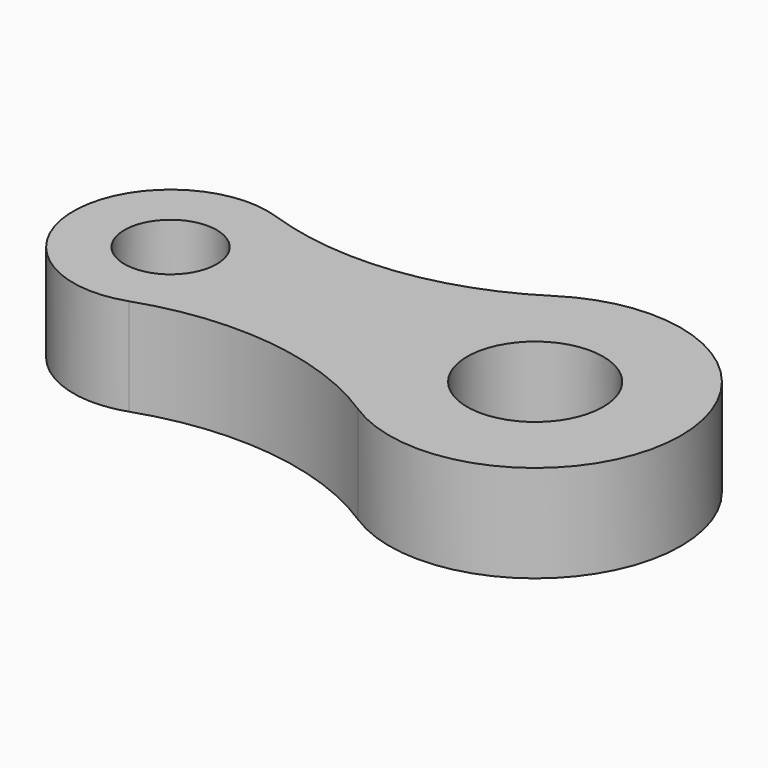
from build123d import *

# Parameters (mm, degrees)
F0_R     = 9.5
F0_R_2   = 14
F1_DEPTH = 20


with BuildPart() as f1:
    # F0 (on Top) → F1 (new body)
    with BuildSketch(Plane.XY):
        with BuildLine():
            ThreePointArc((58.722222, 25.19988), (33.358483, 16.032218), (6.541667, 18.89991))
            ThreePointArc((6.541667, 18.89991), (-20, 0), (6.541667, -18.89991))
            ThreePointArc((6.541667, -18.89991), (33.358483, -16.032218), (58.722222, -25.19988))
            ThreePointArc((58.722222, -25.19988), (105, 0), (58.722222, 25.19988))
        make_face()
        Circle(F0_R, mode=Mode.SUBTRACT)
        with Locations((75, 0)):
            Circle(F0_R_2, mode=Mode.SUBTRACT)
    extrude(amount=F1_DEPTH)


solid = f1.part
